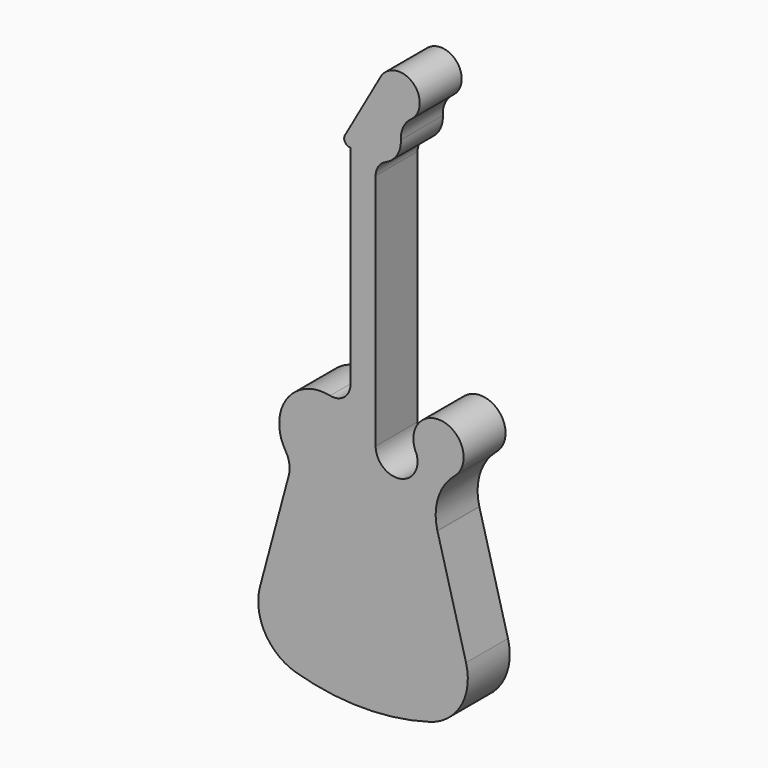
from build123d import *

# Parameters (mm, degrees)
F1_DEPTH = 25


with BuildPart() as f1:
    # F0 (on Front) → F1 (new body)
    with BuildSketch(Plane.XZ):
        with BuildLine():
            Line((-35.470672, 3.699372), (-49.148146, -47.345653))
            ThreePointArc((-49.148146, -47.345653), (-46.772589, -66.102477), (-31.944444, -77.832263))
            ThreePointArc((-31.944444, -77.832263), (0, -82.358046), (31.944444, -77.832263))
            ThreePointArc((31.944444, -77.832263), (46.772589, -66.102477), (49.148146, -47.345653))
            Line((49.148146, -47.345653), (35.522421, 3.506244))
            ThreePointArc((35.522421, 3.506244), (35.496354, 3.602756), (35.470672, 3.699372))
            ThreePointArc((35.470672, 3.699372), (35.788024, 17.547763), (43.429453, 29.101429))
            ThreePointArc((43.429453, 29.101429), (43.688987, 29.324619), (43.946501, 29.550138))
            ThreePointArc((43.946501, 29.550138), (38.94623, 50.174676), (24.731334, 34.416789))
            ThreePointArc((24.731334, 34.416789), (25.119215, 33.645622), (25.439145, 32.843876))
            ThreePointArc((25.439145, 32.843876), (17.674598, 19.683186), (6, 29.541975))
            Line((6, 29.541975), (6, 143.131175))
            ThreePointArc((6, 143.131175), (7.314658, 147.525057), (10.826549, 150.474826))
            ThreePointArc((10.826549, 150.474826), (16.266553, 155.169201), (18.049311, 162.12999))
            ThreePointArc((18.049311, 162.12999), (19.193699, 167.920002), (22.959953, 172.464142))
            ThreePointArc((22.959953, 172.464142), (23.717633, 188.010173), (8.362425, 185.466407))
            Line((8.362425, 185.466407), (-8.611184, 155.4601))
            ThreePointArc((-8.611184, 155.4601), (-8.591447, 152.471612), (-6, 150.983036))
            Line((-6, 150.983036), (-6, 51.53346))
            ThreePointArc((-6, 51.53346), (-8.985735, 45.29991), (-15.714286, 43.719292))
            ThreePointArc((-15.714286, 43.719292), (-36.351172, 35.70078), (-36.950613, 13.568941))
            ThreePointArc((-36.950613, 13.568941), (-35.18295, 8.788259), (-35.470672, 3.699372))
        make_face()
        with BuildLine():
            ThreePointArc((35.470672, 3.699372), (35.496354, 3.602756), (35.522421, 3.506244))
            Line((35.522421, 3.506244), (35.470672, 3.699372))
        make_face()
        with BuildLine():
            ThreePointArc((25.439145, 32.843876), (25.119215, 33.645622), (24.731334, 34.416789))
            ThreePointArc((24.731334, 34.416789), (25.056942, 33.617599), (25.439145, 32.843876))
        make_face()
    extrude(amount=F1_DEPTH)


solid = f1.part
